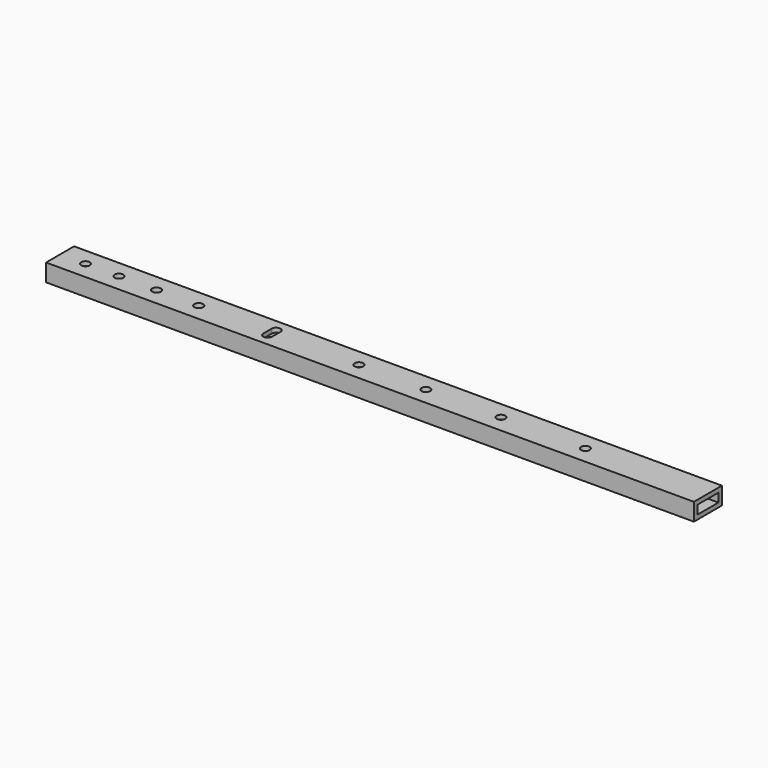
from build123d import *

# Parameters (mm, degrees)
F0_W     = 25.4
F0_H     = 12.7
F0_W_2   = 19.05
F0_H_2   = 6.35
F1_DEPTH = 469.9
F4_D     = 2.7051
F4_DEPTH = 3.175
F4_TIP   = 0.8126940303
F5_R     = 3.175
F6_DEPTH = 3.175


with BuildPart() as f1:
    # F0 (on Right) → F1 (new body)
    with BuildSketch(Plane.YZ):
        Rectangle(F0_W, F0_H)
        Rectangle(F0_W_2, F0_H_2, mode=Mode.SUBTRACT)
    extrude(amount=F1_DEPTH)

    # F4
    with Locations(Plane(origin=(0, 0, -6.35), x_dir=(1, 0, 0), z_dir=(0, 0, -1))):
        with Locations((16.002, -6.35), (16.002, 6.35), (66.802, 6.35), (66.802, -6.35)):
            Hole(F4_D / 2, depth=F4_DEPTH)
            with Locations((0, 0, -(F4_DEPTH + F4_TIP / 2))):  # 118° drill point
                Cone(0, F4_D / 2, F4_TIP, mode=Mode.SUBTRACT)

    # F5 (on face) → F6 (cut)
    with BuildSketch(Plane.XY.offset(6.35)):
        with Locations((380.994543826, 6.90038e-05)):
            Circle(F5_R)
        with Locations((319.818643826, 6.90038e-05)):
            Circle(F5_R)
        with Locations((265.310243826, 6.90038e-05)):
            Circle(F5_R)
        with Locations((216.745443826, 6.90038e-05)):
            Circle(F5_R)
        with BuildLine():
            Line((150.476843826, 3.8100690038), (150.476843826, -3.8099309962))
            ThreePointArc((150.476843826, -3.8099309962), (153.651843826, -6.9849309962), (156.826843826, -3.8099309962))
            Line((156.826843826, -3.8099309962), (156.826843826, 3.8100690038))
            ThreePointArc((156.826843826, 3.8100690038), (153.651843826, 6.9850690038), (150.476843826, 3.8100690038))
        make_face()
        with Locations((100.591243826, 6.90038e-05)):
            Circle(F5_R)
        with Locations((69.984243826, 6.90038e-05)):
            Circle(F5_R)
        with Locations((42.730043826, 6.90038e-05)):
            Circle(F5_R)
        with Locations((18.434943826, 6.90038e-05)):
            Circle(F5_R)
    extrude(amount=-F6_DEPTH, mode=Mode.SUBTRACT)


solid = f1.part
